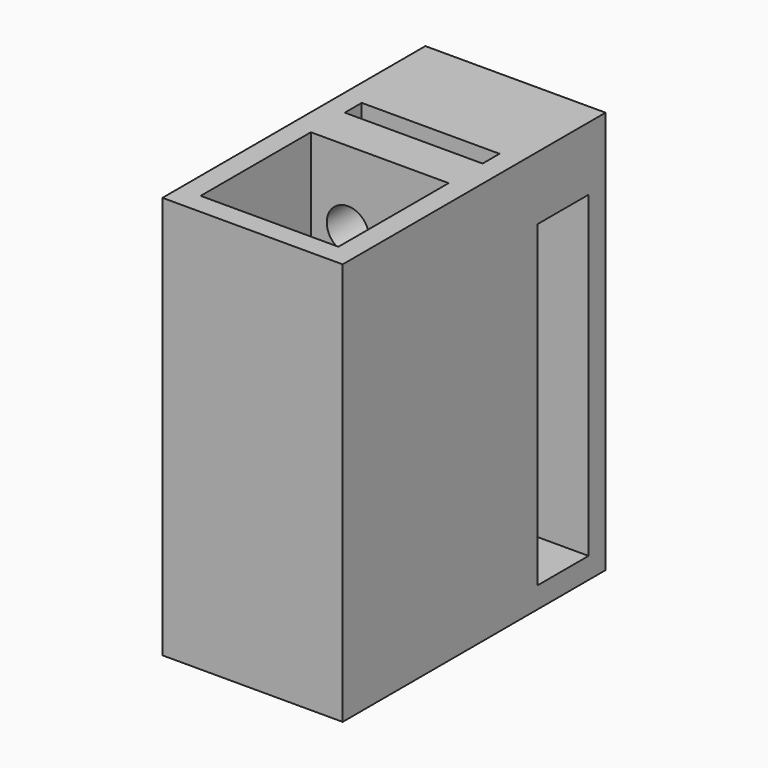
from build123d import *

# Parameters (mm, degrees)
SKETCH_W        = 17
SKETCH_H        = 31
PAD_DEPTH       = 38
SKETCH002_W     = 13
SKETCH002_H     = 13
POCKET001_DEPTH = 36
SKETCH003_W     = 4.2
SKETCH003_H     = 4.2
POCKET002_DEPTH = 5
SKETCH001_W     = 13
SKETCH001_H     = 2
POCKET_DEPTH    = 36
SKETCH004_W     = 6
SKETCH004_H     = 30
POCKET003_DEPTH = 7.5
SKETCH006_W     = 6
SKETCH006_H     = 30
POCKET004_DEPTH = 7.5
SKETCH007_R     = 2
POCKET005_DEPTH = 5
SKETCH008_R     = 2
POCKET006_DEPTH = 2


with BuildPart() as part:
    # Sketch → Pad (new body)
    with BuildSketch(Plane.XY):
        with Locations((8.5, 15.5)):
            Rectangle(SKETCH_W, SKETCH_H)
    extrude(amount=PAD_DEPTH)

    # Sketch002 (on DatumPlane) → Pocket001 (cut)
    with BuildSketch(Plane.XY.offset(38)):
        with Locations((8.5, 8.5)):
            Rectangle(SKETCH002_W, SKETCH002_H)
    extrude(amount=-POCKET001_DEPTH, mode=Mode.SUBTRACT)

    # Sketch003 (on DatumPlane) → Pocket002 (cut)
    with BuildSketch(Plane(origin=(0, 0, 0), x_dir=(1, 0, 0), z_dir=(0, 0, -1))):
        with Locations((8.5, -8.5)):
            Rectangle(SKETCH003_W, SKETCH003_H)
    extrude(amount=-POCKET002_DEPTH, mode=Mode.SUBTRACT)

    # Sketch001 (on DatumPlane) → Pocket (cut)
    with BuildSketch(Plane.XY.offset(38)):
        with Locations((8.5, 20)):
            Rectangle(SKETCH001_W, SKETCH001_H)
    extrude(amount=-POCKET_DEPTH, mode=Mode.SUBTRACT)

    # Sketch004 (on DatumPlane) → Pocket003 (cut)
    with BuildSketch(Plane(origin=(0, 0, 0), x_dir=(0, -1, 0), z_dir=(-1, 0, 0))):
        with Locations((-26, 17)):
            Rectangle(SKETCH004_W, SKETCH004_H)
    extrude(amount=-POCKET003_DEPTH, mode=Mode.SUBTRACT)

    # Sketch006 (on DatumPlane) → Pocket004 (cut)
    with BuildSketch(Plane.YZ.offset(17)):
        with Locations((26, 17)):
            Rectangle(SKETCH006_W, SKETCH006_H)
    extrude(amount=-POCKET004_DEPTH, mode=Mode.SUBTRACT)

    # Sketch007 (on DatumPlane) → Pocket005 (cut)
    with BuildSketch(Plane.XZ.offset(-15)):
        with Locations((5.5, 31)):
            Circle(SKETCH007_R)
        with Locations((11.5, 31)):
            Circle(SKETCH007_R)
        with Locations((5.5, 5)):
            Circle(SKETCH007_R)
        with Locations((11.5, 5)):
            Circle(SKETCH007_R)
    extrude(amount=-POCKET005_DEPTH, mode=Mode.SUBTRACT)

    # Sketch008 (on DatumPlane) → Pocket006 (cut)
    with BuildSketch(Plane(origin=(0, 23, 0), x_dir=(-1, 0, 0), z_dir=(0, 1, 0))):
        with Locations((-5.5, 18)):
            Circle(SKETCH008_R)
        with Locations((-11.5, 18)):
            Circle(SKETCH008_R)
    extrude(amount=-POCKET006_DEPTH, mode=Mode.SUBTRACT)


solid = part.part
